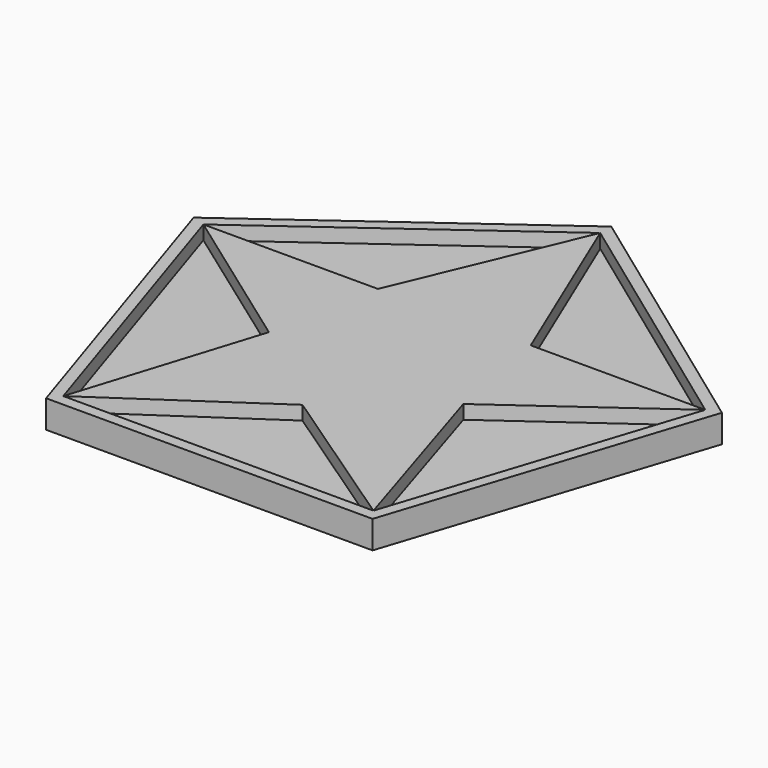
from build123d import *

# Parameters (mm, degrees)
PAD_DEPTH    = 1
POCKET_DEPTH = 0.5
PAD001_DEPTH = 0.5


with BuildPart() as part:
    # Sketch → Pad (new body)
    with BuildSketch(Plane.XY):
        Polygon((0, 10), (-9.510565, 3.09017), (-5.877853, -8.09017), (5.877853, -8.09017), (9.510565, 3.09017), align=None)
    extrude(amount=PAD_DEPTH)

    # Sketch001 (on Face7 of Pad) → Pocket (cut)
    with BuildSketch(Plane.XY.offset(1)):
        Polygon((0, 9.5), (-9.035037, 2.935661), (-5.58396, -7.685661), (5.58396, -7.685661), (9.035037, 2.935661), align=None)
    extrude(amount=-POCKET_DEPTH, mode=Mode.SUBTRACT)

    # Sketch002 (on Face13 of Pocket) → Pad001 (join)
    with BuildSketch(Plane.XY.offset(0.5)):
        Polygon((-9.035037, 2.935661), (-2.75, 2.935661), (0, 9.5), (2.75, 2.935661), (9.035037, 2.935661), (3.5, -1.035616), (5.58396, -7.685661), (0, -3.9), (-5.58396, -7.685661), (-3.5, -1.035616), align=None)
    extrude(amount=PAD001_DEPTH)


solid = part.part
